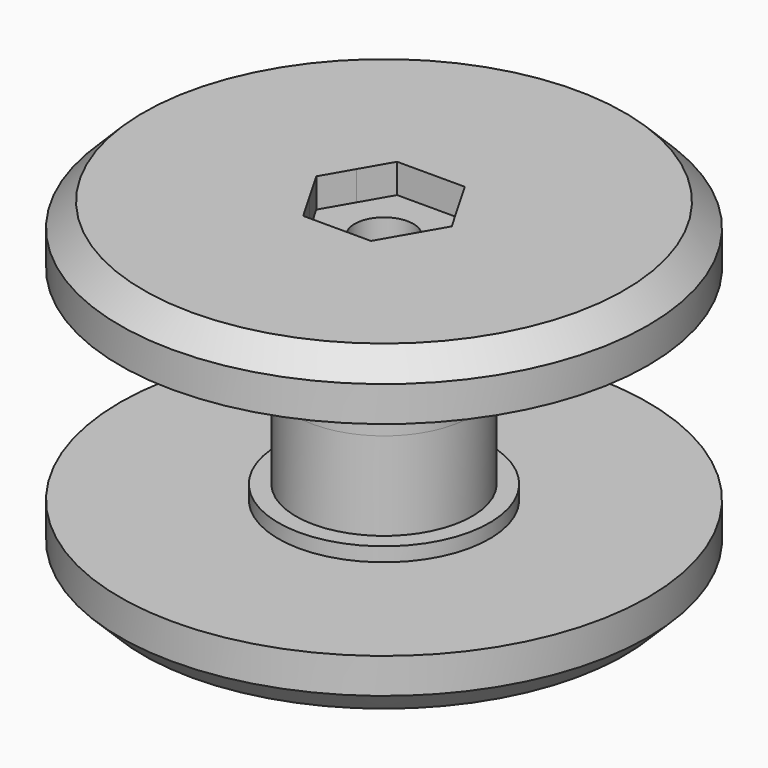
from build123d import *

# Parameters (mm, degrees)
F3_DEPTH       = 1.5875
F7_D           = 3.175
F7_DEPTH       = 15.875
F7_CSINK_D     = 6.35
F7_CSINK_ANGLE = 82


with BuildPart() as f1:
    # F0 (on Right) → F1 (revolve)
    with BuildSketch(Plane.YZ):
        Polygon((-3.175, 8.6995), (-13.0175, 8.6995), (-14.2875, 7.4295), (-14.2875, 5.5245), (-5.715, 5.5245), (-5.715, 4.7625), (-4.7625, 4.7625), (-4.7625, 0), (-1.5875, 0), (-1.5875, 7.112), (-3.175, 7.112), align=None)
    revolve(axis=Axis((0, 0, 4.34975), (0, 0, -1)))

    # F2 (on face) → F3 (cut, through all)
    with BuildSketch(Plane.XY.offset(8.6995)):
        with BuildLine():
            Line((1.833087, 3.175), (0, 3.175))
            ThreePointArc((0, 3.175), (1.5875, 2.749631), (2.749631, 1.5875))
            Line((2.749631, 1.5875), (1.833087, 3.175))
        make_face()
        with BuildLine():
            ThreePointArc((3.175, 0), (3.066814, -0.82175), (2.749631, -1.5875))
            Line((2.749631, -1.5875), (3.666174, 0))
            Line((3.666174, 0), (2.749631, 1.5875))
            ThreePointArc((2.749631, 1.5875), (3.066815, 0.82175), (3.175, 0))
        make_face()
        with BuildLine():
            ThreePointArc((2.749631, -1.5875), (1.5875, -2.749631), (0, -3.175))
            Line((0, -3.175), (1.833087, -3.175))
            Line((1.833087, -3.175), (2.749631, -1.5875))
        make_face()
        with BuildLine():
            Line((-2.749631, -1.5875), (-1.833087, -3.175))
            Line((-1.833087, -3.175), (0, -3.175))
            ThreePointArc((0, -3.175), (-1.5875, -2.749631), (-2.749631, -1.5875))
        make_face()
        with BuildLine():
            Line((-3.666174, 0), (-2.749631, -1.5875))
            ThreePointArc((-2.749631, -1.5875), (-3.175, 0), (-2.749631, 1.5875))
            Line((-2.749631, 1.5875), (-3.666174, 0))
        make_face()
        with BuildLine():
            Line((-1.833087, 3.175), (-2.749631, 1.5875))
            ThreePointArc((-2.749631, 1.5875), (-1.5875, 2.749631), (0, 3.175))
            Line((0, 3.175), (-1.833087, 3.175))
        make_face()
    extrude(amount=-F3_DEPTH, mode=Mode.SUBTRACT)


with BuildPart() as f5:
    # F4 (on Right) → F5 (revolve)
    with BuildSketch(Plane.YZ):
        Polygon((0, 0), (-4.7625, 0), (-4.7625, -4.7625), (-5.715, -4.7625), (-5.715, -5.5245), (-14.2875, -5.5245), (-14.2875, -7.4295), (-13.0175, -8.6995), (0, -8.6995), align=None)
    revolve(axis=Axis((0, 0, 4.7625), (0, 0, -1)))

    # F7
    with Locations(Plane(origin=(0, 0, -8.6995), x_dir=(1, 0, 0), z_dir=(0, 0, -1))):
        with Locations((0, 0)):
            CounterSinkHole(F7_D / 2, F7_CSINK_D / 2, depth=F7_DEPTH, counter_sink_angle=F7_CSINK_ANGLE)


solid = Compound([f1.part, f5.part])
